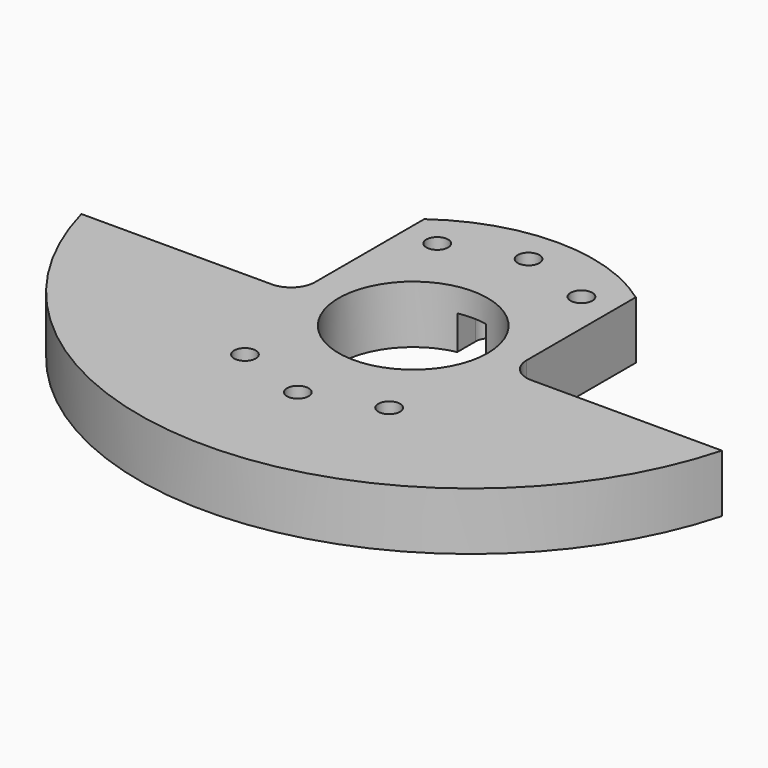
from build123d import *

# Parameters (mm, degrees)
F2_R     = 2.261012
F2_R_2   = 15.5
F3_DEPTH = 12
F5_DEPTH = 7.1


with BuildPart() as f3:
    # F2 (on offset) → F3 (new body)
    with BuildSketch(Plane.XY.offset(19)):
        with BuildLine():
            ThreePointArc((-22, 2), (-23.464466, -1.535534), (-27, -3))
            Line((-27, -3), (-66.61081, -3))
            ThreePointArc((-66.61081, -3), (0, -54), (66.61081, -3))
            Line((66.61081, -3), (27, -3))
            ThreePointArc((27, -3), (23.464466, -1.535534), (22, 2))
            Line((22, 2), (22, 30.368569))
            ThreePointArc((22, 30.368569), (0, 37.5), (-22, 30.368569))
            Line((-22, 30.368569), (-22, 2))
        make_face()
        with Locations((-15, -25)):
            Circle(F2_R, mode=Mode.SUBTRACT)
        with Locations((0, -30)):
            Circle(F2_R, mode=Mode.SUBTRACT)
        with Locations((15, -25)):
            Circle(F2_R, mode=Mode.SUBTRACT)
        with Locations((-15, 25)):
            Circle(F2_R, mode=Mode.SUBTRACT)
        Circle(F2_R_2, mode=Mode.SUBTRACT)
        with Locations((15, 25)):
            Circle(F2_R, mode=Mode.SUBTRACT)
        with Locations((0, 30)):
            Circle(F2_R, mode=Mode.SUBTRACT)
    extrude(amount=F3_DEPTH)

    # F4 (on offset) → F5 (cut)
    with BuildSketch(Plane.XY.offset(19)):
        with BuildLine():
            Line((-3, 0), (-3, -20))
            ThreePointArc((-3, -20), (0, -23), (3, -20))
            Line((3, -20), (3, 0))
            Line((3, 0), (3, 20))
            ThreePointArc((3, 20), (0, 23), (-3, 20))
            Line((-3, 20), (-3, 0))
        make_face()
    extrude(amount=F5_DEPTH, mode=Mode.SUBTRACT)


solid = f3.part
